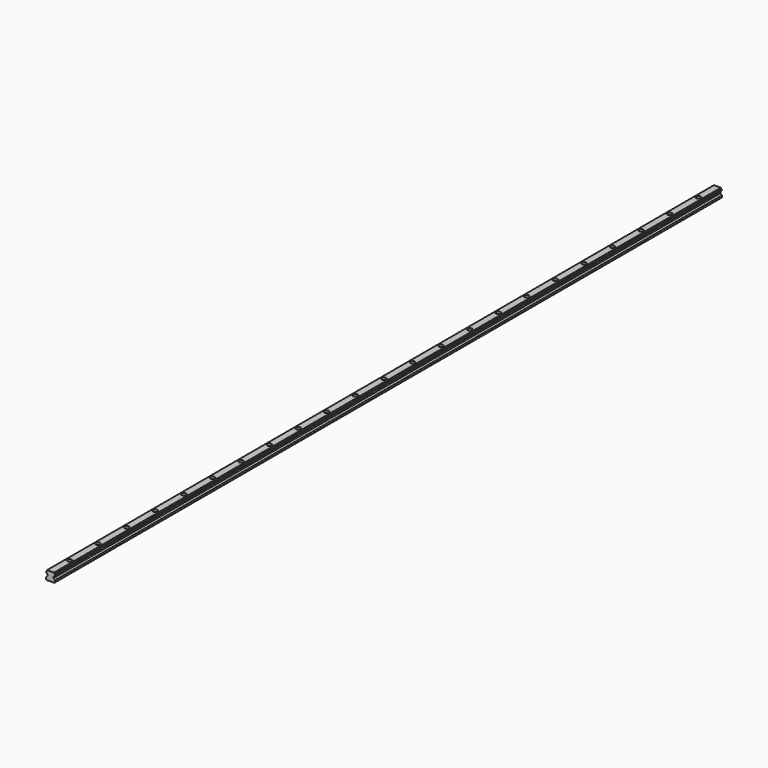
from build123d import *

# Parameters (mm, degrees)
F1_DEPTH = 700
F2_R     = 2.25
F3_DEPTH = 25
F2_R_2   = 3.75
F4_DEPTH = 5.3


with BuildPart() as f1:
    # F0 (on Front) → F1 (new body, symmetric)
    with BuildSketch(Plane.XZ):
        with BuildLine():
            ThreePointArc((-6.314645, -7.485355), (-6.298423, -7.496194), (-6.279289, -7.5))
            Line((-6.279289, -7.5), (6.279289, -7.5))
            ThreePointArc((6.279289, -7.5), (6.298423, -7.496194), (6.314645, -7.485355))
            Line((6.314645, -7.485355), (7.485355, -6.314645))
            ThreePointArc((7.485355, -6.314645), (7.496194, -6.298423), (7.5, -6.279289))
            Line((7.5, -6.279289), (7.5, -3.220711))
            ThreePointArc((7.5, -3.220711), (7.496194, -3.201577), (7.485355, -3.185355))
            Line((7.485355, -3.185355), (5.154375, -0.854375))
            Line((5.154375, -0.854375), (5.154375, 1.145625))
            Line((5.154375, 1.145625), (6.20039, 2.191641))
            ThreePointArc((6.20039, 2.191641), (6.211229, 2.207862), (6.215035, 2.226996))
            Line((6.215035, 2.226996), (6.215035, 2.758332))
            Line((6.215035, 2.758332), (6.822068, 3.365366))
            Line((6.822068, 3.365366), (7.079289, 3.365366))
            ThreePointArc((7.079289, 3.365366), (7.098423, 3.369172), (7.114645, 3.38001))
            Line((7.114645, 3.38001), (7.485355, 3.750721))
            ThreePointArc((7.485355, 3.750721), (7.496194, 3.766942), (7.5, 3.786076))
            Line((7.5, 3.786076), (7.5, 4.944655))
            ThreePointArc((7.5, 4.944655), (7.496194, 4.96379), (7.485355, 4.980011))
            Line((7.485355, 4.980011), (7.114645, 5.350721))
            ThreePointArc((7.114645, 5.350721), (7.098423, 5.36156), (7.079289, 5.365366))
            Line((7.079289, 5.365366), (6.822068, 5.365366))
            Line((6.822068, 5.365366), (6.215035, 5.972399))
            Line((6.215035, 5.972399), (6.215035, 7.058579))
            ThreePointArc((6.215035, 7.058579), (6.211475, 7.077108), (6.201302, 7.092998))
            Line((6.201302, 7.092998), (5.829822, 7.484419))
            ThreePointArc((5.829822, 7.484419), (5.813291, 7.49594), (5.793555, 7.5))
            Line((5.793555, 7.5), (-5.793555, 7.5))
            ThreePointArc((-5.793555, 7.5), (-5.813291, 7.49594), (-5.829822, 7.484419))
            Line((-5.829822, 7.484419), (-6.201302, 7.092998))
            ThreePointArc((-6.201302, 7.092998), (-6.211475, 7.077108), (-6.215035, 7.058579))
            Line((-6.215035, 7.058579), (-6.215035, 5.972399))
            Line((-6.215035, 5.972399), (-6.822068, 5.365366))
            Line((-6.822068, 5.365366), (-7.079289, 5.365366))
            ThreePointArc((-7.079289, 5.365366), (-7.098423, 5.36156), (-7.114645, 5.350721))
            Line((-7.114645, 5.350721), (-7.485355, 4.980011))
            ThreePointArc((-7.485355, 4.980011), (-7.496194, 4.96379), (-7.5, 4.944655))
            Line((-7.5, 4.944655), (-7.5, 3.786076))
            ThreePointArc((-7.5, 3.786076), (-7.496194, 3.766942), (-7.485355, 3.750721))
            Line((-7.485355, 3.750721), (-7.114645, 3.38001))
            ThreePointArc((-7.114645, 3.38001), (-7.098423, 3.369172), (-7.079289, 3.365366))
            Line((-7.079289, 3.365366), (-6.822068, 3.365366))
            Line((-6.822068, 3.365366), (-6.215035, 2.758332))
            Line((-6.215035, 2.758332), (-6.215035, 2.226996))
            ThreePointArc((-6.215035, 2.226996), (-6.211229, 2.207862), (-6.20039, 2.191641))
            Line((-6.20039, 2.191641), (-5.154375, 1.145625))
            Line((-5.154375, 1.145625), (-5.154375, -0.854375))
            Line((-5.154375, -0.854375), (-7.485355, -3.185355))
            ThreePointArc((-7.485355, -3.185355), (-7.496194, -3.201577), (-7.5, -3.220711))
            Line((-7.5, -3.220711), (-7.5, -6.279289))
            ThreePointArc((-7.5, -6.279289), (-7.496194, -6.298423), (-7.485355, -6.314645))
            Line((-7.485355, -6.314645), (-6.314645, -7.485355))
        make_face()
    extrude(amount=F1_DEPTH, both=True)

    # F2 (on face) → F3 (cut)
    with BuildSketch(Plane.XY.offset(7.5)):
        with Locations((0, -600)):
            Circle(F2_R)
        with Locations((0, -540)):
            Circle(F2_R)
        with Locations((0, -480)):
            Circle(F2_R)
        with Locations((0, -420)):
            Circle(F2_R)
        with Locations((0, -360)):
            Circle(F2_R)
        with Locations((0, -300)):
            Circle(F2_R)
        with Locations((0, -240)):
            Circle(F2_R)
        with Locations((0, -180)):
            Circle(F2_R)
        with Locations((0, -120)):
            Circle(F2_R)
        with Locations((0, -60)):
            Circle(F2_R)
        Circle(F2_R)
        with Locations((0, 60)):
            Circle(F2_R)
        with Locations((0, 180)):
            Circle(F2_R)
        with Locations((0, 120)):
            Circle(F2_R)
        with Locations((0, 300)):
            Circle(F2_R)
        with Locations((0, 240)):
            Circle(F2_R)
        with Locations((0, 360)):
            Circle(F2_R)
        with Locations((0, 420)):
            Circle(F2_R)
        with Locations((0, 480)):
            Circle(F2_R)
        with Locations((0, 660)):
            Circle(F2_R)
        with Locations((0, 600)):
            Circle(F2_R)
        with Locations((0, 540)):
            Circle(F2_R)
        with Locations((0, -660)):
            Circle(F2_R)
    extrude(amount=-F3_DEPTH, mode=Mode.SUBTRACT)

    # F2 (on face) → F4 (cut)
    with BuildSketch(Plane.XY.offset(7.5)):
        with Locations((0, -660)):
            Circle(F2_R_2)
        with Locations((0, -660)):
            Circle(F2_R, mode=Mode.SUBTRACT)
        with Locations((0, -600)):
            Circle(F2_R_2)
        with Locations((0, -600)):
            Circle(F2_R, mode=Mode.SUBTRACT)
        with Locations((0, -540)):
            Circle(F2_R_2)
        with Locations((0, -540)):
            Circle(F2_R, mode=Mode.SUBTRACT)
        with Locations((0, -420)):
            Circle(F2_R_2)
        with Locations((0, -420)):
            Circle(F2_R, mode=Mode.SUBTRACT)
        with Locations((0, -480)):
            Circle(F2_R_2)
        with Locations((0, -480)):
            Circle(F2_R, mode=Mode.SUBTRACT)
        with Locations((0, -360)):
            Circle(F2_R_2)
        with Locations((0, -360)):
            Circle(F2_R, mode=Mode.SUBTRACT)
        with Locations((0, -300)):
            Circle(F2_R_2)
        with Locations((0, -300)):
            Circle(F2_R, mode=Mode.SUBTRACT)
        with Locations((0, -240)):
            Circle(F2_R_2)
        with Locations((0, -240)):
            Circle(F2_R, mode=Mode.SUBTRACT)
        with Locations((0, -180)):
            Circle(F2_R_2)
        with Locations((0, -180)):
            Circle(F2_R, mode=Mode.SUBTRACT)
        with Locations((0, -120)):
            Circle(F2_R_2)
        with Locations((0, -120)):
            Circle(F2_R, mode=Mode.SUBTRACT)
        with Locations((0, -60)):
            Circle(F2_R_2)
        with Locations((0, -60)):
            Circle(F2_R, mode=Mode.SUBTRACT)
        Circle(F2_R_2)
        Circle(F2_R, mode=Mode.SUBTRACT)
        with Locations((0, 60)):
            Circle(F2_R_2)
        with Locations((0, 60)):
            Circle(F2_R, mode=Mode.SUBTRACT)
        with Locations((0, 120)):
            Circle(F2_R_2)
        with Locations((0, 120)):
            Circle(F2_R, mode=Mode.SUBTRACT)
        with Locations((0, 180)):
            Circle(F2_R_2)
        with Locations((0, 180)):
            Circle(F2_R, mode=Mode.SUBTRACT)
        with Locations((0, 240)):
            Circle(F2_R_2)
        with Locations((0, 240)):
            Circle(F2_R, mode=Mode.SUBTRACT)
        with Locations((0, 360)):
            Circle(F2_R_2)
        with Locations((0, 360)):
            Circle(F2_R, mode=Mode.SUBTRACT)
        with Locations((0, 300)):
            Circle(F2_R_2)
        with Locations((0, 300)):
            Circle(F2_R, mode=Mode.SUBTRACT)
        with Locations((0, 420)):
            Circle(F2_R_2)
        with Locations((0, 420)):
            Circle(F2_R, mode=Mode.SUBTRACT)
        with Locations((0, 480)):
            Circle(F2_R_2)
        with Locations((0, 480)):
            Circle(F2_R, mode=Mode.SUBTRACT)
        with Locations((0, 600)):
            Circle(F2_R_2)
        with Locations((0, 600)):
            Circle(F2_R, mode=Mode.SUBTRACT)
        with Locations((0, 540)):
            Circle(F2_R_2)
        with Locations((0, 540)):
            Circle(F2_R, mode=Mode.SUBTRACT)
        with Locations((0, 660)):
            Circle(F2_R_2)
        with Locations((0, 660)):
            Circle(F2_R, mode=Mode.SUBTRACT)
    extrude(amount=-F4_DEPTH, mode=Mode.SUBTRACT)


solid = f1.part
